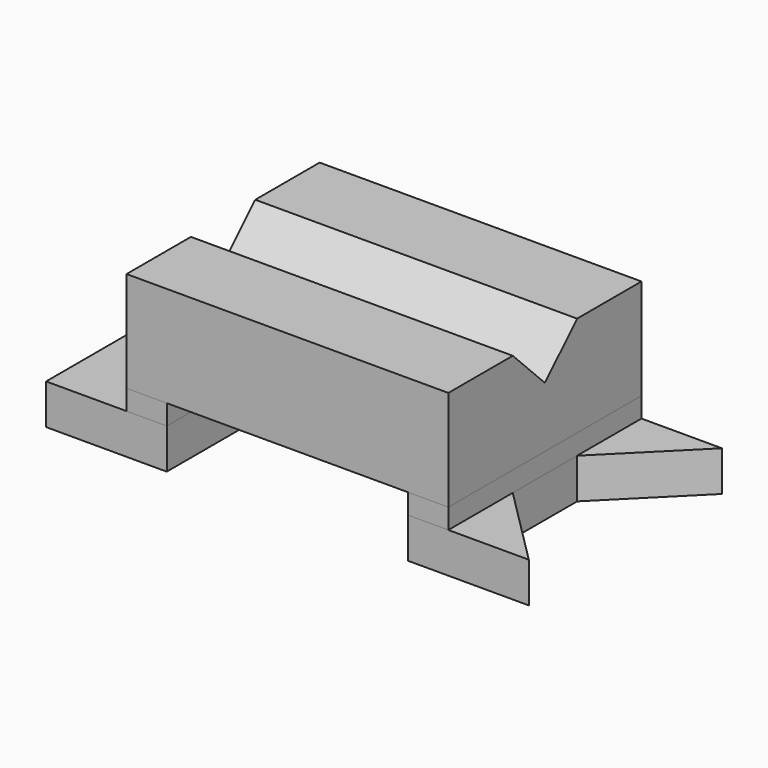
from build123d import *

# Parameters (mm, degrees)
F0_W     = 38.1
F0_H     = 76.2
F1_DEPTH = 12.7
F2_W     = 12.7
F2_H     = 76.2
F3_DEPTH = 6.35
F4_W     = 101.6
F4_H     = 76.2
F5_DEPTH = 31.75
F7_DEPTH = 127.001


with BuildPart() as f1:
    # F0 (on Top) → F1 (new body)
    with BuildSketch(Plane.XY):
        Polygon((76.2, 38.1), (38.1, 38.1), (38.1, -38.1), (76.2, -38.1), (50.8, -12.7), (50.8, 12.7), align=None)
        with Locations((-57.15, 0)):
            Rectangle(F0_W, F0_H)
    extrude(amount=F1_DEPTH)


with BuildPart() as f3:
    # F2 (on face) → F3 (new body)
    with BuildSketch(Plane.XY.offset(12.7)):
        with Locations((44.45, 0)):
            Rectangle(F2_W, F2_H)
        with Locations((-44.45, 0)):
            Rectangle(F2_W, F2_H)
    extrude(amount=F3_DEPTH)


with BuildPart() as f5:
    # F4 (on face) → F5 (new body)
    with BuildSketch(Plane.XY.offset(19.05)):
        Rectangle(F4_W, F4_H)
    extrude(amount=F5_DEPTH)

    # F6 (on face) → F7 (cut, through all)
    with BuildSketch(Plane.YZ.offset(50.8)):
        Polygon((-12.694698, 50.8), (0, 38.1), (12.696164, 50.8), align=None)
    extrude(amount=-F7_DEPTH, mode=Mode.SUBTRACT)


solid = Compound([f1.part, f3.part, f5.part])
